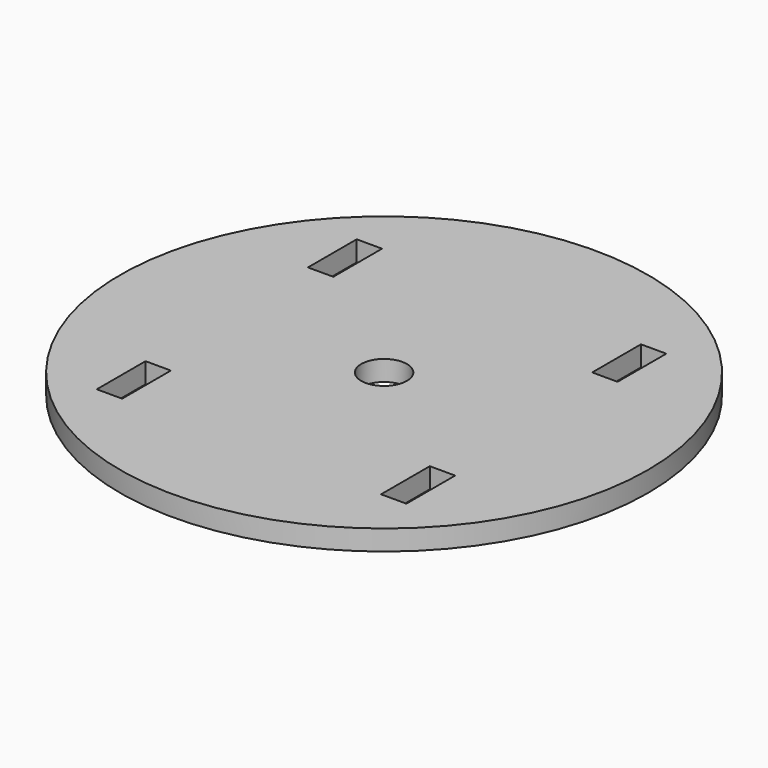
from build123d import *

# Parameters (mm, degrees)
F0_R     = 82.55
F0_W     = 7.9375
F0_H     = 19.05
F0_R_2   = 7.14375
F1_DEPTH = 6.35


with BuildPart() as f1:
    # F0 (on Top) → F1 (new body)
    with BuildSketch(Plane.XY):
        Circle(F0_R)
        with Locations((-45.24375, -41.275)):
            Rectangle(F0_W, F0_H, mode=Mode.SUBTRACT)
        with Locations((43.65625, -41.275)):
            Rectangle(F0_W, F0_H, mode=Mode.SUBTRACT)
        with Locations((-45.24375, 41.275)):
            Rectangle(F0_W, F0_H, mode=Mode.SUBTRACT)
        Circle(F0_R_2, mode=Mode.SUBTRACT)
        with Locations((43.65625, 41.275)):
            Rectangle(F0_W, F0_H, mode=Mode.SUBTRACT)
    extrude(amount=F1_DEPTH)


solid = f1.part
